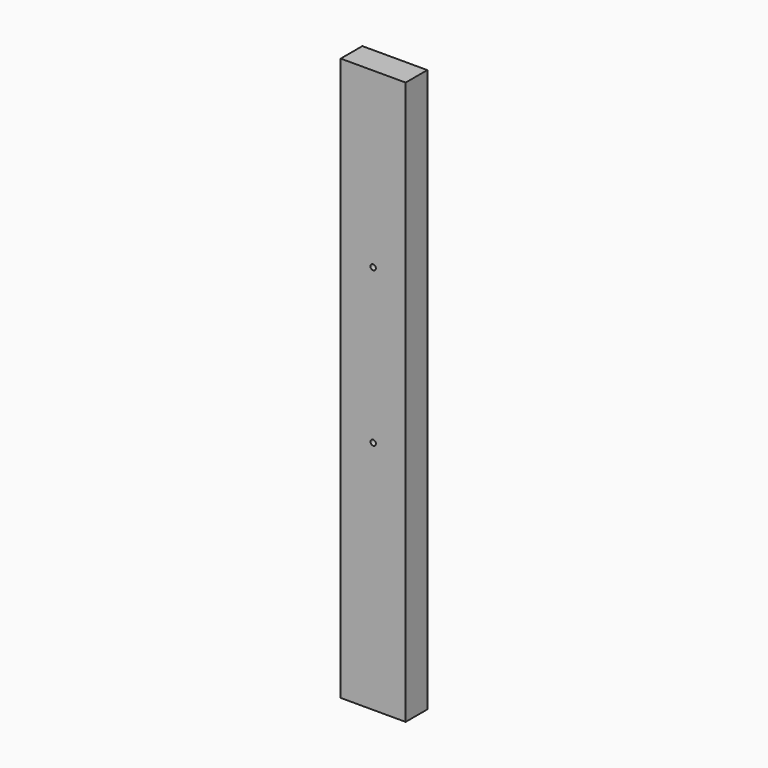
from build123d import *

# Parameters (mm, degrees)
F0_W     = 38.1
F0_H     = 330.2
F0_R     = 1.5875
F1_DEPTH = 7.9375


with BuildPart() as f1:
    # F0 (on Front) → F1 (new body, symmetric)
    with BuildSketch(Plane.XZ):
        Rectangle(F0_W, F0_H)
        with Locations((0, -27.085749)):
            Circle(F0_R, mode=Mode.SUBTRACT)
        with Locations((0, 63.5)):
            Circle(F0_R, mode=Mode.SUBTRACT)
    extrude(amount=F1_DEPTH, both=True)


solid = f1.part
